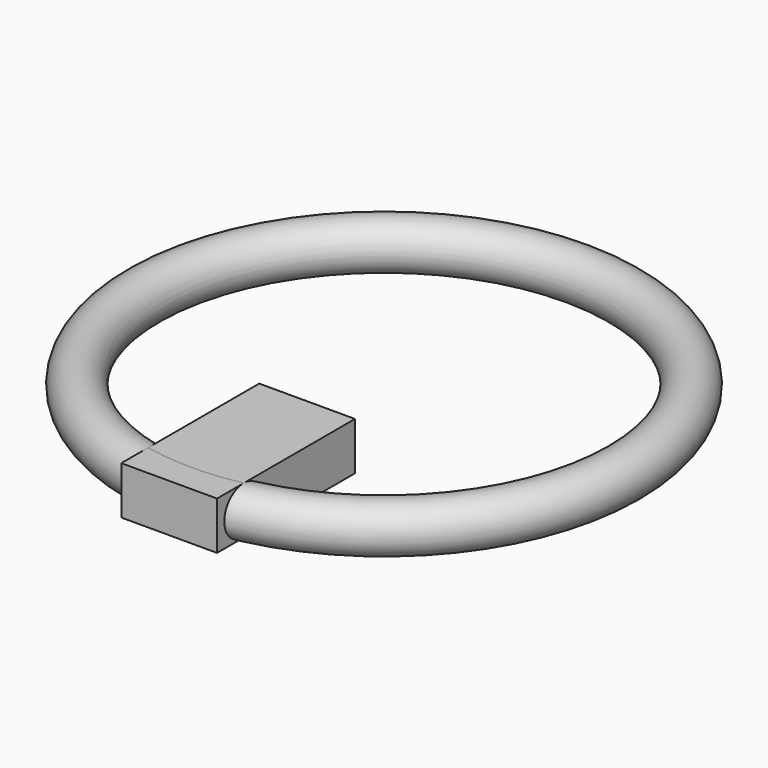
from build123d import *

# Parameters (mm, degrees)
F1_R          = 2.00017
F4_DEPTH      = 2
F4_DEPTH_BACK = 2


with BuildPart() as f2:
    # F2: sweep along a path in F0
    with BuildLine(Plane.XY) as f2_path:
        CenterArc((0, 0), 18, 0, 360)
    # F1 (on Front) → F2 (sweep)
    with BuildSketch(Plane.XZ):
        with Locations((-20.043772, 0)):
            Circle(F1_R)
    sweep(path=f2_path.line)

    # F3 (on Top) → F4 (join, two sides)
    with BuildSketch(Plane.XY) as f4_sk:
        Polygon((4, -8.030277), (0, -8.030277), (-4, -8.030277), (-4, -19.934135), (-4, -22.434135), (4, -22.434135), (4, -19.934135), align=None)
    extrude(amount=F4_DEPTH)
    extrude(f4_sk.sketch, amount=-F4_DEPTH_BACK)


solid = f2.part
